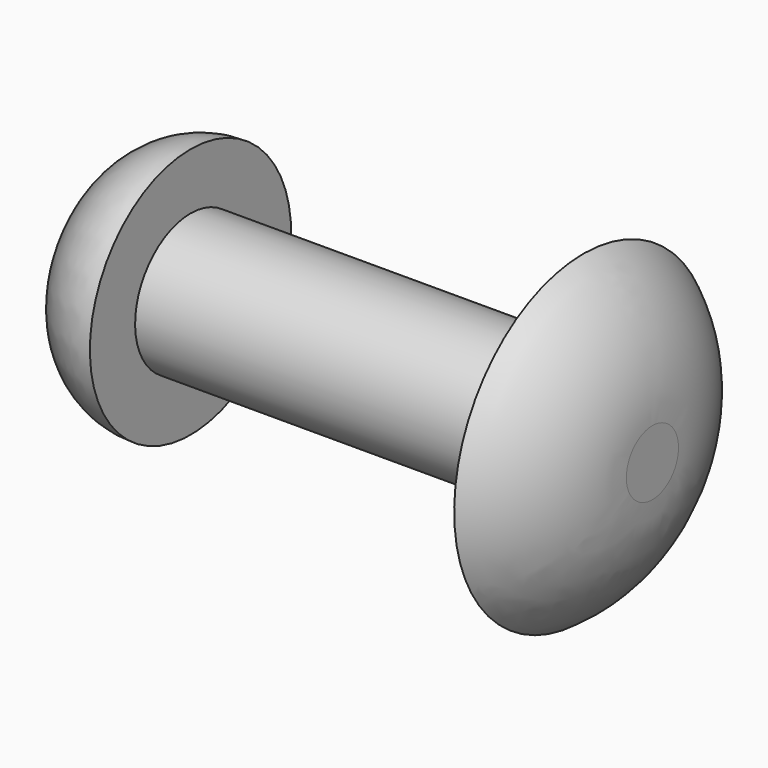
from build123d import *


with BuildPart() as f1:
    # F0 (on Front) → F1 (revolve)
    with BuildSketch(Plane.XZ):
        with BuildLine():
            Line((0, 2.570061), (0, 0))
            Line((0, 0), (38.1, 0))
            Line((38.1, 0), (38.1, 2.250872))
            ThreePointArc((38.1, 2.250872), (36.834626, 7.301015), (33.3375, 11.157857))
            Line((33.3375, 11.157857), (33.3375, 4.784073))
            Line((33.3375, 4.784073), (6.203805, 4.784073))
            Line((6.203805, 4.784073), (6.203805, 8.688359))
            ThreePointArc((6.203805, 8.688359), (1.822309, 6.926687), (0, 2.570061))
        make_face()
    revolve(axis=Axis((19.05, 0, 0), (1, 0, 0)))


solid = f1.part
